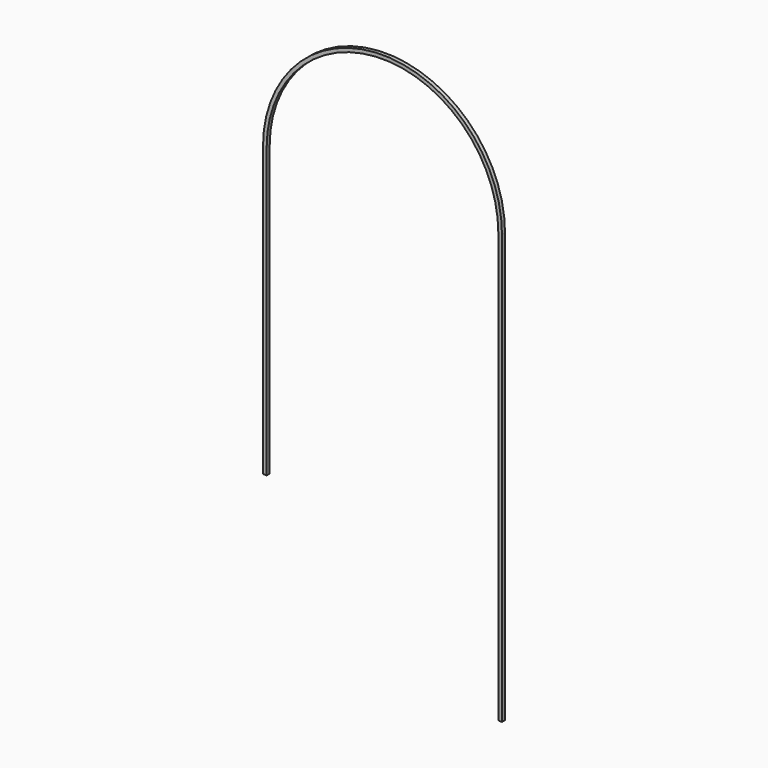
from build123d import *

# Parameters (mm, degrees)
F1_W = 24.3612935813
F1_H = 25.4


with BuildPart() as f2:
    # F2: sweep along a path in F0
    with BuildLine(Plane.XZ) as f2_path:
        Line((0, 0), (0, 1930.4))
        ThreePointArc((0, 1930.4), (787.4, 2717.8), (1574.8, 1930.4))
        Line((1574.8, 1930.4), (1574.8, -939.8))
    # F1 (on Top) → F2 (sweep)
    with BuildSketch(Plane.XY):
        Rectangle(F1_W, F1_H)
    sweep(path=f2_path.line)


solid = f2.part
